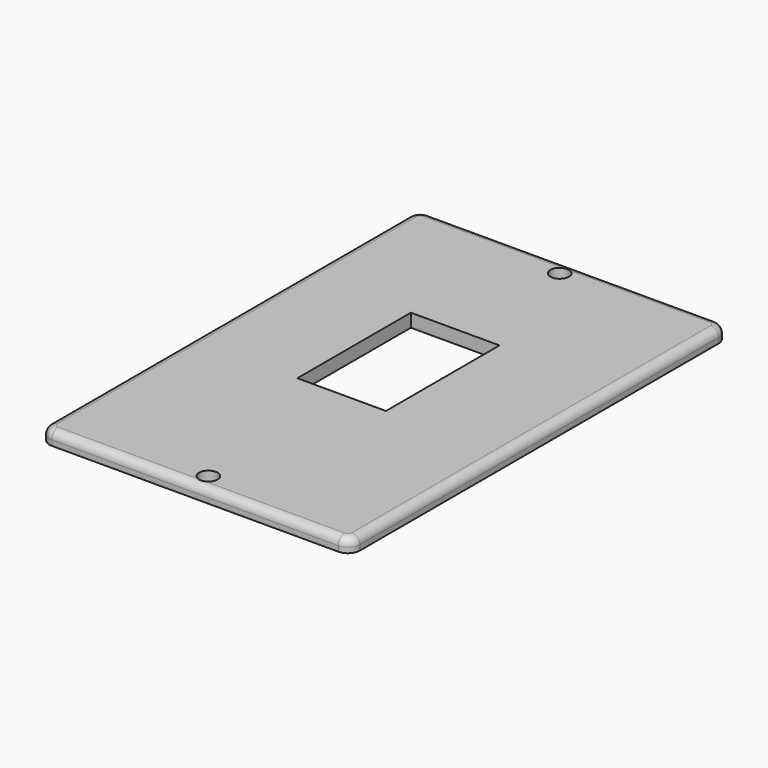
from build123d import *

# Parameters (mm, degrees)
F0_W     = 59.436
F0_H     = 90.424
F1_DEPTH = 2.54
F2_R     = 2.286
F3_R     = 1.524
F4_R     = 1.778
F5_DEPTH = 25.4
F6_W     = 16.9672
F6_H     = 27.178
F7_DEPTH = 25.4


with BuildPart() as f1:
    # F0 (on Top) → F1 (new body)
    with BuildSketch(Plane.XY):
        Rectangle(F0_W, F0_H)
    extrude(amount=F1_DEPTH)

    # F2
    f2_edges = [f1.edges().sort_by_distance(p)[0] for p in [
        (29.718, -45.212, 1.27),
        (-29.718, -45.212, 1.27),
        (29.718, 45.212, 1.27),
        (-29.718, 45.212, 1.27),
    ]]
    fillet(f2_edges, radius=F2_R)

    # F3
    f3_edges = [f1.edges().sort_by_distance(p)[0] for p in [
        (-29.718, 0, 2.54),
    ]]
    fillet(f3_edges, radius=F3_R)

    # F4 (on face) → F5 (cut)
    with BuildSketch(Plane(origin=(0, 0, 0), x_dir=(1, 0, 0), z_dir=(0, 0, -1))):
        with Locations((0, 42.037)):
            Circle(F4_R)
        with Locations((0, -42.037)):
            Circle(F4_R)
    extrude(amount=-F5_DEPTH, mode=Mode.SUBTRACT)

    # F6 (on face) → F7 (cut)
    with BuildSketch(Plane.XY.offset(2.54)):
        with Locations((-0.922986, 4.603704)):
            Rectangle(F6_W, F6_H)
    extrude(amount=-F7_DEPTH, mode=Mode.SUBTRACT)


solid = f1.part
